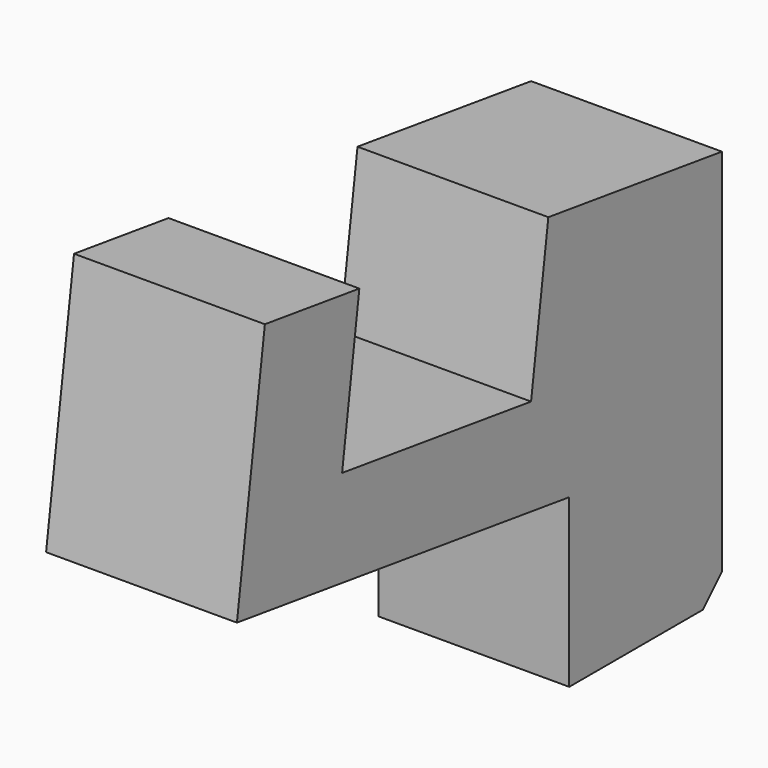
from build123d import *

# Parameters (mm, degrees)
F1_DEPTH = 8
F2_SIZE  = 1


with BuildPart() as f1:
    # F0 (on Right) → F1 (new body)
    with BuildSketch(Plane.YZ):
        Polygon((-17.413627, 2.447326), (0, 0), (0, -7), (8, -7), (8, 9.5), (-1.095375, 10.778272), (-2, 4.341529), (-11.902681, 5.73326), (-10.998056, 12.170003), (-15.949396, 12.865868), align=None)
    extrude(amount=F1_DEPTH)

    # F2
    f2_edges = [f1.edges().sort_by_distance(p)[0] for p in [
        (4, 8, -7),
    ]]
    chamfer(f2_edges, length=F2_SIZE)


solid = f1.part
